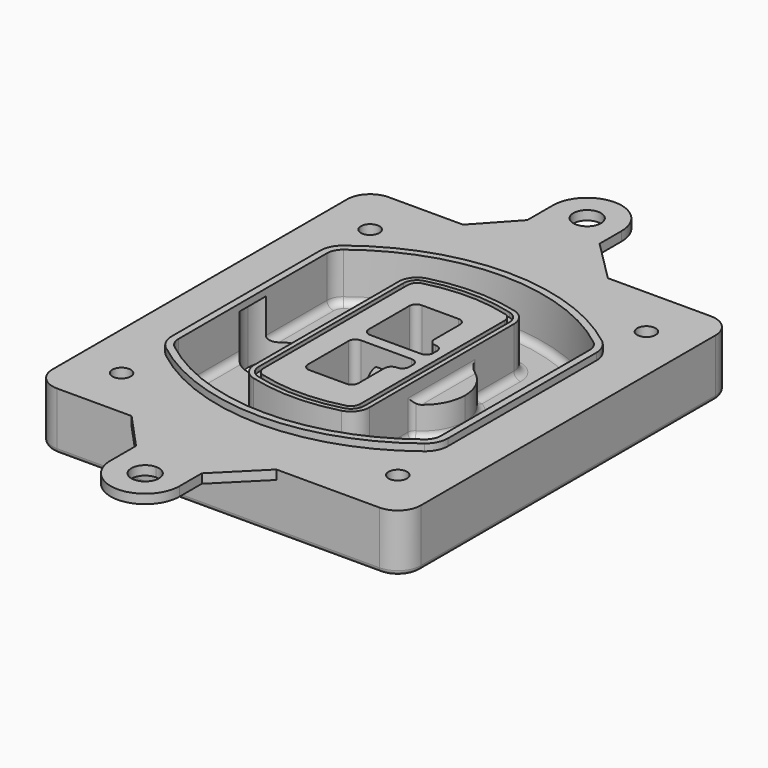
from build123d import *

# Parameters (mm, degrees)
F0_R      = 4
F1_DEPTH  = 25
F2_DEPTH  = 3
F3_DEPTH  = 18
F5_DEPTH  = 21
F6_DEPTH  = 2
F8_DEPTH  = 20
F9_DEPTH  = 16
F10_DEPTH = 25
F7_R      = 6
F7_R_2    = 4
F11_DEPTH = 6
F13_DEPTH = 9
F14_R     = 3
F15_R     = 2
F16_R     = 6
F17_DEPTH = 4


with BuildPart() as f1:
    # F0 (on Top) → F1 (new body)
    with BuildSketch(Plane.XY):
        with BuildLine():
            ThreePointArc((14.05, 38.3825811321), (16.9789321881, 31.3115133202), (24.05, 28.3825811321))
            Line((24.05, 28.3825811321), (164.05, 28.3825811321))
            ThreePointArc((164.05, 28.3825811321), (171.1210678119, 31.3115133202), (174.05, 38.3825811321))
            Line((174.05, 38.3825811321), (174.05, 198.3825811321))
            ThreePointArc((174.05, 198.3825811321), (171.1210678119, 205.4536489439), (164.05, 208.3825811321))
            Line((164.05, 208.3825811321), (24.05, 208.3825811321))
            ThreePointArc((24.05, 208.3825811321), (16.9789321881, 205.4536489439), (14.05, 198.3825811321))
            Line((14.05, 198.3825811321), (14.05, 38.3825811321))
        make_face()
        with Locations((34.05, 50.8825811321)):
            Circle(F0_R, mode=Mode.SUBTRACT)
        with Locations((154.05, 50.8825811321)):
            Circle(F0_R, mode=Mode.SUBTRACT)
        with Locations((34.05, 185.8825811321)):
            Circle(F0_R, mode=Mode.SUBTRACT)
        with BuildLine():
            ThreePointArc((30.05, 158.6760234193), (31.4679615202, 164.8154295545), (35.4346153846, 169.7112011673))
            ThreePointArc((35.4346153846, 169.7112011673), (94.05, 189.8825811321), (152.6653846154, 169.7112011673))
            ThreePointArc((152.6653846154, 169.7112011673), (156.6320384798, 164.8154295545), (158.05, 158.6760234193))
            Line((158.05, 158.6760234193), (158.05, 78.0891388448))
            ThreePointArc((158.05, 78.0891388448), (156.6320384798, 71.9497327097), (152.6653846154, 67.0539610969))
            ThreePointArc((152.6653846154, 67.0539610969), (94.05, 46.8825811321), (35.4346153846, 67.0539610969))
            ThreePointArc((35.4346153846, 67.0539610969), (31.4679615202, 71.9497327097), (30.05, 78.0891388448))
            Line((30.05, 78.0891388448), (30.05, 158.6760234193))
        make_face(mode=Mode.SUBTRACT)
        with Locations((154.05, 185.8825811321)):
            Circle(F0_R, mode=Mode.SUBTRACT)
        with BuildLine():
            ThreePointArc((152.6653846154, 169.7112011673), (94.05, 189.8825811321), (35.4346153846, 169.7112011673))
            ThreePointArc((35.4346153846, 169.7112011673), (31.4679615202, 164.8154295545), (30.05, 158.6760234193))
            Line((30.05, 158.6760234193), (30.05, 78.0891388448))
            ThreePointArc((30.05, 78.0891388448), (31.4679615202, 71.9497327097), (35.4346153846, 67.0539610969))
            ThreePointArc((35.4346153846, 67.0539610969), (94.05, 46.8825811321), (152.6653846154, 67.0539610969))
            ThreePointArc((152.6653846154, 67.0539610969), (156.6320384798, 71.9497327097), (158.05, 78.0891388448))
            Line((158.05, 78.0891388448), (158.05, 158.6760234193))
            ThreePointArc((158.05, 158.6760234193), (156.6320384798, 164.8154295545), (152.6653846154, 169.7112011673))
        make_face()
        with BuildLine():
            Line((34.05, 78.0891388448), (34.05, 158.6760234193))
            ThreePointArc((34.05, 158.6760234193), (35.0628296573, 163.0613135158), (37.8961538462, 166.5582932393))
            ThreePointArc((37.8961538462, 166.5582932393), (94.05, 185.8825811321), (150.2038461538, 166.5582932393))
            ThreePointArc((150.2038461538, 166.5582932393), (153.0371703427, 163.0613135158), (154.05, 158.6760234193))
            Line((154.05, 158.6760234193), (154.05, 78.0891388448))
            ThreePointArc((154.05, 78.0891388448), (153.0371703427, 73.7038487483), (150.2038461538, 70.2068690248))
            ThreePointArc((150.2038461538, 70.2068690248), (94.05, 50.8825811321), (37.8961538462, 70.2068690248))
            ThreePointArc((37.8961538462, 70.2068690248), (35.0628296573, 73.7038487483), (34.05, 78.0891388448))
        make_face(mode=Mode.SUBTRACT)
        with BuildLine():
            ThreePointArc((37.8961538462, 166.5582932393), (35.0628296573, 163.0613135158), (34.05, 158.6760234193))
            Line((34.05, 158.6760234193), (34.05, 78.0891388448))
            ThreePointArc((34.05, 78.0891388448), (35.0628296573, 73.7038487483), (37.8961538462, 70.2068690248))
            ThreePointArc((37.8961538462, 70.2068690248), (94.05, 50.8825811321), (150.2038461538, 70.2068690248))
            ThreePointArc((150.2038461538, 70.2068690248), (153.0371703427, 73.7038487483), (154.05, 78.0891388448))
            Line((154.05, 78.0891388448), (154.05, 158.6760234193))
            ThreePointArc((154.05, 158.6760234193), (153.0371703427, 163.0613135158), (150.2038461538, 166.5582932393))
            ThreePointArc((150.2038461538, 166.5582932393), (94.05, 185.8825811321), (37.8961538462, 166.5582932393))
        make_face()
        with BuildLine():
            ThreePointArc((148.3576923077, 164.1936122933), (150.3410192399, 161.7457264869), (151.05, 158.6760234193))
            Line((151.05, 158.6760234193), (151.05, 78.0891388448))
            ThreePointArc((151.05, 78.0891388448), (150.3410192399, 75.0194357772), (148.3576923077, 72.5715499708))
            ThreePointArc((148.3576923077, 72.5715499708), (94.05, 53.8825811321), (39.7423076923, 72.5715499708))
            ThreePointArc((39.7423076923, 72.5715499708), (37.7589807601, 75.0194357772), (37.05, 78.0891388448))
            Line((37.05, 78.0891388448), (37.05, 158.6760234193))
            ThreePointArc((37.05, 158.6760234193), (37.7589807601, 161.7457264869), (39.7423076923, 164.1936122933))
            ThreePointArc((39.7423076923, 164.1936122933), (94.05, 182.8825811321), (148.3576923077, 164.1936122933))
        make_face(mode=Mode.SUBTRACT)
        with BuildLine():
            Line((151.05, 78.0891388448), (151.05, 158.6760234193))
            ThreePointArc((151.05, 158.6760234193), (150.3410192399, 161.7457264869), (148.3576923077, 164.1936122933))
            ThreePointArc((148.3576923077, 164.1936122933), (94.05, 182.8825811321), (39.7423076923, 164.1936122933))
            ThreePointArc((39.7423076923, 164.1936122933), (37.7589807601, 161.7457264869), (37.05, 158.6760234193))
            Line((37.05, 158.6760234193), (37.05, 78.0891388448))
            ThreePointArc((37.05, 78.0891388448), (37.7589807601, 75.0194357772), (39.7423076923, 72.5715499708))
            ThreePointArc((39.7423076923, 72.5715499708), (94.05, 53.8825811321), (148.3576923077, 72.5715499708))
            ThreePointArc((148.3576923077, 72.5715499708), (150.3410192399, 75.0194357772), (151.05, 78.0891388448))
        make_face()
    extrude(amount=-F1_DEPTH)

    # F0 (on Top) → F2 (join)
    with BuildSketch(Plane.XY):
        with BuildLine():
            ThreePointArc((37.8961538462, 166.5582932393), (35.0628296573, 163.0613135158), (34.05, 158.6760234193))
            Line((34.05, 158.6760234193), (34.05, 78.0891388448))
            ThreePointArc((34.05, 78.0891388448), (35.0628296573, 73.7038487483), (37.8961538462, 70.2068690248))
            ThreePointArc((37.8961538462, 70.2068690248), (94.05, 50.8825811321), (150.2038461538, 70.2068690248))
            ThreePointArc((150.2038461538, 70.2068690248), (153.0371703427, 73.7038487483), (154.05, 78.0891388448))
            Line((154.05, 78.0891388448), (154.05, 158.6760234193))
            ThreePointArc((154.05, 158.6760234193), (153.0371703427, 163.0613135158), (150.2038461538, 166.5582932393))
            ThreePointArc((150.2038461538, 166.5582932393), (94.05, 185.8825811321), (37.8961538462, 166.5582932393))
        make_face()
        with BuildLine():
            ThreePointArc((148.3576923077, 164.1936122933), (150.3410192399, 161.7457264869), (151.05, 158.6760234193))
            Line((151.05, 158.6760234193), (151.05, 78.0891388448))
            ThreePointArc((151.05, 78.0891388448), (150.3410192399, 75.0194357772), (148.3576923077, 72.5715499708))
            ThreePointArc((148.3576923077, 72.5715499708), (94.05, 53.8825811321), (39.7423076923, 72.5715499708))
            ThreePointArc((39.7423076923, 72.5715499708), (37.7589807601, 75.0194357772), (37.05, 78.0891388448))
            Line((37.05, 78.0891388448), (37.05, 158.6760234193))
            ThreePointArc((37.05, 158.6760234193), (37.7589807601, 161.7457264869), (39.7423076923, 164.1936122933))
            ThreePointArc((39.7423076923, 164.1936122933), (94.05, 182.8825811321), (148.3576923077, 164.1936122933))
        make_face(mode=Mode.SUBTRACT)
    extrude(amount=F2_DEPTH)

    # F0 (on Top) → F3 (cut)
    with BuildSketch(Plane.XY):
        with BuildLine():
            Line((151.05, 78.0891388448), (151.05, 158.6760234193))
            ThreePointArc((151.05, 158.6760234193), (150.3410192399, 161.7457264869), (148.3576923077, 164.1936122933))
            ThreePointArc((148.3576923077, 164.1936122933), (94.05, 182.8825811321), (39.7423076923, 164.1936122933))
            ThreePointArc((39.7423076923, 164.1936122933), (37.7589807601, 161.7457264869), (37.05, 158.6760234193))
            Line((37.05, 158.6760234193), (37.05, 78.0891388448))
            ThreePointArc((37.05, 78.0891388448), (37.7589807601, 75.0194357772), (39.7423076923, 72.5715499708))
            ThreePointArc((39.7423076923, 72.5715499708), (94.05, 53.8825811321), (148.3576923077, 72.5715499708))
            ThreePointArc((148.3576923077, 72.5715499708), (150.3410192399, 75.0194357772), (151.05, 78.0891388448))
        make_face()
    extrude(amount=-F3_DEPTH, mode=Mode.SUBTRACT)

    # F4 (on face) → F5 (join, through all)
    with BuildSketch(Plane.XY.offset(3)):
        with BuildLine():
            ThreePointArc((69.05, 79.13605345), (70.6988454002, 74.2716074128), (74.9657088123, 71.4123412437))
            ThreePointArc((74.9657088123, 71.4123412437), (94.05, 68.8825811321), (113.1342911877, 71.4123412437))
            ThreePointArc((113.1342911877, 71.4123412437), (117.4011545998, 74.2716074128), (119.05, 79.13605345))
            Line((119.05, 79.13605345), (119.05, 157.6291088141))
            ThreePointArc((119.05, 157.6291088141), (117.4011545998, 162.4935548514), (113.1342911877, 165.3528210204))
            ThreePointArc((113.1342911877, 165.3528210204), (94.05, 167.8825811321), (74.9657088123, 165.3528210204))
            ThreePointArc((74.9657088123, 165.3528210204), (70.6988454002, 162.4935548514), (69.05, 157.6291088141))
            Line((69.05, 157.6291088141), (69.05, 79.13605345))
        make_face()
        with BuildLine():
            ThreePointArc((112.6132183908, 163.4218929688), (115.8133659499, 161.2774433421), (117.05, 157.6291088141))
            Line((117.05, 157.6291088141), (117.05, 79.13605345))
            ThreePointArc((117.05, 79.13605345), (115.8133659499, 75.4877189221), (112.6132183908, 73.3432692953))
            ThreePointArc((112.6132183908, 73.3432692953), (94.05, 70.8825811321), (75.4867816092, 73.3432692953))
            ThreePointArc((75.4867816092, 73.3432692953), (72.2866340501, 75.4877189221), (71.05, 79.13605345))
            Line((71.05, 79.13605345), (71.05, 157.6291088141))
            ThreePointArc((71.05, 157.6291088141), (72.2866340501, 161.2774433421), (75.4867816092, 163.4218929688))
            ThreePointArc((75.4867816092, 163.4218929688), (94.05, 165.8825811321), (112.6132183908, 163.4218929688))
        make_face(mode=Mode.SUBTRACT)
        with BuildLine():
            Line((117.05, 79.13605345), (117.05, 157.6291088141))
            ThreePointArc((117.05, 157.6291088141), (115.8133659499, 161.2774433421), (112.6132183908, 163.4218929688))
            ThreePointArc((112.6132183908, 163.4218929688), (94.05, 165.8825811321), (75.4867816092, 163.4218929688))
            ThreePointArc((75.4867816092, 163.4218929688), (72.2866340501, 161.2774433421), (71.05, 157.6291088141))
            Line((71.05, 157.6291088141), (71.05, 79.13605345))
            ThreePointArc((71.05, 79.13605345), (72.2866340501, 75.4877189221), (75.4867816092, 73.3432692953))
            ThreePointArc((75.4867816092, 73.3432692953), (94.05, 70.8825811321), (112.6132183908, 73.3432692953))
            ThreePointArc((112.6132183908, 73.3432692953), (115.8133659499, 75.4877189221), (117.05, 79.13605345))
        make_face()
        with BuildLine():
            ThreePointArc((112.0921455939, 161.4909649173), (114.2255772999, 160.0613318328), (115.05, 157.6291088141))
            Line((115.05, 157.6291088141), (115.05, 79.13605345))
            ThreePointArc((115.05, 79.13605345), (114.2255772999, 76.7038304314), (112.0921455939, 75.2741973469))
            ThreePointArc((112.0921455939, 75.2741973469), (94.05, 72.8825811321), (76.0078544061, 75.2741973469))
            ThreePointArc((76.0078544061, 75.2741973469), (73.8744227001, 76.7038304314), (73.05, 79.13605345))
            Line((73.05, 79.13605345), (73.05, 157.6291088141))
            ThreePointArc((73.05, 157.6291088141), (73.8744227001, 160.0613318328), (76.0078544061, 161.4909649173))
            ThreePointArc((76.0078544061, 161.4909649173), (94.05, 163.8825811321), (112.0921455939, 161.4909649173))
        make_face(mode=Mode.SUBTRACT)
        with BuildLine():
            Line((115.05, 79.13605345), (115.05, 157.6291088141))
            ThreePointArc((115.05, 157.6291088141), (114.2255772999, 160.0613318328), (112.0921455939, 161.4909649173))
            ThreePointArc((112.0921455939, 161.4909649173), (94.05, 163.8825811321), (76.0078544061, 161.4909649173))
            ThreePointArc((76.0078544061, 161.4909649173), (73.8744227001, 160.0613318328), (73.05, 157.6291088141))
            Line((73.05, 157.6291088141), (73.05, 79.13605345))
            ThreePointArc((73.05, 79.13605345), (73.8744227001, 76.7038304314), (76.0078544061, 75.2741973469))
            ThreePointArc((76.0078544061, 75.2741973469), (94.05, 72.8825811321), (112.0921455939, 75.2741973469))
            ThreePointArc((112.0921455939, 75.2741973469), (114.2255772999, 76.7038304314), (115.05, 79.13605345))
        make_face()
        with BuildLine():
            Line((86.05, 115.8825811321), (108.05, 115.8825811321))
            ThreePointArc((108.05, 115.8825811321), (110.1713203436, 115.0039014756), (111.05, 112.8825811321))
            Line((111.05, 112.8825811321), (111.05, 110.8825811321))
            ThreePointArc((111.05, 110.8825811321), (110.1713203436, 108.7612607885), (108.05, 107.8825811321))
            ThreePointArc((108.05, 107.8825811321), (105.9286796564, 107.0039014756), (105.05, 104.8825811321))
            Line((105.05, 104.8825811321), (105.05, 90.8825811321))
            ThreePointArc((105.05, 90.8825811321), (104.1713203436, 88.7612607885), (102.05, 87.8825811321))
            Line((102.05, 87.8825811321), (86.05, 87.8825811321))
            ThreePointArc((86.05, 87.8825811321), (83.9286796564, 88.7612607885), (83.05, 90.8825811321))
            Line((83.05, 90.8825811321), (83.05, 112.8825811321))
            ThreePointArc((83.05, 112.8825811321), (83.9286796564, 115.0039014756), (86.05, 115.8825811321))
        make_face(mode=Mode.SUBTRACT)
        with BuildLine():
            ThreePointArc((86.05, 120.8825811321), (83.9286796564, 121.7612607885), (83.05, 123.8825811321))
            Line((83.05, 123.8825811321), (83.05, 145.8825811321))
            ThreePointArc((83.05, 145.8825811321), (83.9286796564, 148.0039014756), (86.05, 148.8825811321))
            Line((86.05, 148.8825811321), (102.05, 148.8825811321))
            ThreePointArc((102.05, 148.8825811321), (104.1713203436, 148.0039014756), (105.05, 145.8825811321))
            Line((105.05, 145.8825811321), (105.05, 131.8825811321))
            ThreePointArc((105.05, 131.8825811321), (105.9286796564, 129.7612607885), (108.05, 128.8825811321))
            ThreePointArc((108.05, 128.8825811321), (110.1713203436, 128.0039014756), (111.05, 125.8825811321))
            Line((111.05, 125.8825811321), (111.05, 123.8825811321))
            ThreePointArc((111.05, 123.8825811321), (110.1713203436, 121.7612607885), (108.05, 120.8825811321))
            Line((108.05, 120.8825811321), (86.05, 120.8825811321))
        make_face(mode=Mode.SUBTRACT)
    extrude(amount=-F5_DEPTH)

    # F4 (on face) → F6 (cut)
    with BuildSketch(Plane.XY.offset(3)):
        with BuildLine():
            Line((117.05, 79.13605345), (117.05, 157.6291088141))
            ThreePointArc((117.05, 157.6291088141), (115.8133659499, 161.2774433421), (112.6132183908, 163.4218929688))
            ThreePointArc((112.6132183908, 163.4218929688), (94.05, 165.8825811321), (75.4867816092, 163.4218929688))
            ThreePointArc((75.4867816092, 163.4218929688), (72.2866340501, 161.2774433421), (71.05, 157.6291088141))
            Line((71.05, 157.6291088141), (71.05, 79.13605345))
            ThreePointArc((71.05, 79.13605345), (72.2866340501, 75.4877189221), (75.4867816092, 73.3432692953))
            ThreePointArc((75.4867816092, 73.3432692953), (94.05, 70.8825811321), (112.6132183908, 73.3432692953))
            ThreePointArc((112.6132183908, 73.3432692953), (115.8133659499, 75.4877189221), (117.05, 79.13605345))
        make_face()
        with BuildLine():
            ThreePointArc((112.0921455939, 161.4909649173), (114.2255772999, 160.0613318328), (115.05, 157.6291088141))
            Line((115.05, 157.6291088141), (115.05, 79.13605345))
            ThreePointArc((115.05, 79.13605345), (114.2255772999, 76.7038304314), (112.0921455939, 75.2741973469))
            ThreePointArc((112.0921455939, 75.2741973469), (94.05, 72.8825811321), (76.0078544061, 75.2741973469))
            ThreePointArc((76.0078544061, 75.2741973469), (73.8744227001, 76.7038304314), (73.05, 79.13605345))
            Line((73.05, 79.13605345), (73.05, 157.6291088141))
            ThreePointArc((73.05, 157.6291088141), (73.8744227001, 160.0613318328), (76.0078544061, 161.4909649173))
            ThreePointArc((76.0078544061, 161.4909649173), (94.05, 163.8825811321), (112.0921455939, 161.4909649173))
        make_face(mode=Mode.SUBTRACT)
    extrude(amount=-F6_DEPTH, mode=Mode.SUBTRACT)

    # F7 (on face) → F8 (join)
    with BuildSketch(Plane(origin=(0, 0, -25), x_dir=(1, 0, 0), z_dir=(0, 0, -1))):
        with BuildLine():
            ThreePointArc((97.33842436, -118.3825811321), (110.8067035675, -104.9143019245), (124.274982775, -118.3825811321))
            Line((124.274982775, -118.3825811321), (129.274982775, -118.3825811321))
            ThreePointArc((129.274982775, -118.3825811321), (110.8067035675, -99.9143019245), (92.33842436, -118.3825811321))
            Line((92.33842436, -118.3825811321), (97.33842436, -118.3825811321))
        make_face()
        with BuildLine():
            Line((97.33842436, -118.3825811321), (124.274982775, -118.3825811321))
            ThreePointArc((124.274982775, -118.3825811321), (110.8067035675, -104.9143019245), (97.33842436, -118.3825811321))
        make_face()
        with BuildLine():
            ThreePointArc((97.33842436, -118.3825811321), (110.8067035675, -131.8508603396), (124.274982775, -118.3825811321))
            Line((124.274982775, -118.3825811321), (97.33842436, -118.3825811321))
        make_face()
        with BuildLine():
            Line((129.274982775, -118.3825811321), (124.274982775, -118.3825811321))
            ThreePointArc((124.274982775, -118.3825811321), (110.8067035675, -131.8508603396), (97.33842436, -118.3825811321))
            Line((97.33842436, -118.3825811321), (92.33842436, -118.3825811321))
            ThreePointArc((92.33842436, -118.3825811321), (110.8067035675, -136.8508603396), (129.274982775, -118.3825811321))
        make_face()
    extrude(amount=-F8_DEPTH)

    # F7 (on face) → F9 (cut)
    with BuildSketch(Plane(origin=(0, 0, -25), x_dir=(1, 0, 0), z_dir=(0, 0, -1))):
        with BuildLine():
            Line((97.33842436, -118.3825811321), (124.274982775, -118.3825811321))
            ThreePointArc((124.274982775, -118.3825811321), (110.8067035675, -104.9143019245), (97.33842436, -118.3825811321))
        make_face()
        with BuildLine():
            ThreePointArc((97.33842436, -118.3825811321), (110.8067035675, -131.8508603396), (124.274982775, -118.3825811321))
            Line((124.274982775, -118.3825811321), (97.33842436, -118.3825811321))
        make_face()
    extrude(amount=-F9_DEPTH, mode=Mode.SUBTRACT)

    # F7 (on face) → F10 (cut)
    with BuildSketch(Plane(origin=(0, 0, -25), x_dir=(1, 0, 0), z_dir=(0, 0, -1))):
        with BuildLine():
            Line((35.0181770675, -118.3825811321), (61.9547354825, -118.3825811321))
            ThreePointArc((61.9547354825, -118.3825811321), (48.486456275, -104.9143019245), (35.0181770675, -118.3825811321))
        make_face()
        with BuildLine():
            ThreePointArc((35.0181770675, -118.3825811321), (48.486456275, -131.8508603396), (61.9547354825, -118.3825811321))
            Line((61.9547354825, -118.3825811321), (35.0181770675, -118.3825811321))
        make_face()
    extrude(amount=-F10_DEPTH, mode=Mode.SUBTRACT)

    # F7 (on face) → F11 (cut)
    with BuildSketch(Plane(origin=(0, 0, -25), x_dir=(1, 0, 0), z_dir=(0, 0, -1))):
        with Locations((154.05, -185.8825811321)):
            Circle(F7_R)
        with Locations((154.05, -185.8825811321)):
            Circle(F7_R_2, mode=Mode.SUBTRACT)
        with Locations((154.05, -185.8825811321)):
            Circle(F7_R)
        with Locations((154.05, -185.8825811321)):
            Circle(F7_R_2, mode=Mode.SUBTRACT)
        with Locations((34.05, -185.8825811321)):
            Circle(F7_R)
        with Locations((34.05, -185.8825811321)):
            Circle(F7_R_2, mode=Mode.SUBTRACT)
        with Locations((34.05, -185.8825811321)):
            Circle(F7_R)
        with Locations((34.05, -185.8825811321)):
            Circle(F7_R_2, mode=Mode.SUBTRACT)
        with Locations((34.05, -50.8825811321)):
            Circle(F7_R)
        with Locations((34.05, -50.8825811321)):
            Circle(F7_R_2, mode=Mode.SUBTRACT)
        with Locations((34.05, -50.8825811321)):
            Circle(F7_R)
        with Locations((34.05, -50.8825811321)):
            Circle(F7_R_2, mode=Mode.SUBTRACT)
        with Locations((154.05, -50.8825811321)):
            Circle(F7_R)
        with Locations((154.05, -50.8825811321)):
            Circle(F7_R_2, mode=Mode.SUBTRACT)
        with Locations((154.05, -50.8825811321)):
            Circle(F7_R)
        with Locations((154.05, -50.8825811321)):
            Circle(F7_R_2, mode=Mode.SUBTRACT)
    extrude(amount=-F11_DEPTH, mode=Mode.SUBTRACT)

    # F12 (on face) → F13 (cut, through all)
    with BuildSketch(Plane(origin=(0, 0, -9), x_dir=(1, 0, 0), z_dir=(0, 0, -1))):
        with BuildLine():
            Line((105.05, -104.8825811321), (105.05, -100.8344273567))
            ThreePointArc((105.05, -100.8344273567), (96.6196536419, -106.5586667507), (92.5084157545, -115.8825811321))
            Line((92.5084157545, -115.8825811321), (97.5724848595, -115.8825811321))
            ThreePointArc((97.5724848595, -115.8825811321), (100.2357188154, -110.0369939039), (105.3036447004, -106.0898642673))
            ThreePointArc((105.3036447004, -106.0898642673), (105.1140958889, -105.4994012441), (105.05, -104.8825811321))
        make_face()
        with BuildLine():
            ThreePointArc((105.3036447004, -130.6752979968), (100.2357188154, -126.7281683602), (97.5724848595, -120.8825811321))
            Line((97.5724848595, -120.8825811321), (92.5084157545, -120.8825811321))
            ThreePointArc((92.5084157545, -120.8825811321), (96.6196536419, -130.2064955134), (105.05, -135.9307349074))
            Line((105.05, -135.9307349074), (105.05, -131.8825811321))
            ThreePointArc((105.05, -131.8825811321), (105.1140958889, -131.26576102), (105.3036447004, -130.6752979968))
        make_face()
        with BuildLine():
            ThreePointArc((105.3036447004, -106.0898642673), (100.2357188154, -110.0369939039), (97.5724848595, -115.8825811321))
            Line((97.5724848595, -115.8825811321), (108.05, -115.8825811321))
            ThreePointArc((108.05, -115.8825811321), (110.1713203436, -115.0039014756), (111.05, -112.8825811321))
            Line((111.05, -112.8825811321), (111.05, -110.8825811321))
            ThreePointArc((111.05, -110.8825811321), (110.1713203436, -108.7612607885), (108.05, -107.8825811321))
            ThreePointArc((108.05, -107.8825811321), (106.4101599782, -107.3947365219), (105.3036447004, -106.0898642673))
        make_face()
        with BuildLine():
            Line((108.05, -120.8825811321), (97.5724848595, -120.8825811321))
            ThreePointArc((97.5724848595, -120.8825811321), (100.2357188154, -126.7281683602), (105.3036447004, -130.6752979968))
            ThreePointArc((105.3036447004, -130.6752979968), (106.4101599782, -129.3704257422), (108.05, -128.8825811321))
            ThreePointArc((108.05, -128.8825811321), (110.1713203436, -128.0039014756), (111.05, -125.8825811321))
            Line((111.05, -125.8825811321), (111.05, -123.8825811321))
            ThreePointArc((111.05, -123.8825811321), (110.1713203436, -121.7612607885), (108.05, -120.8825811321))
        make_face()
    extrude(amount=F13_DEPTH, mode=Mode.SUBTRACT)

    # F14
    f14_edges = [f1.edges().sort_by_distance(p)[0] for p in [
        (37.05, 94.679105, -18),
        (37.05, 142.086057, -18),
        (119.05, 118.382581, -5),
        (119.05, 134.909087, -11.5),
        (119.05, 101.856075, -11.5),
        (119.05, 90.496064, -18),
        (129.274983, 118.382581, -18),
    ]]
    fillet(f14_edges, radius=F14_R)

    # F15
    f15_edges = [f1.edges().sort_by_distance(p)[0] for p in [
        (94.05, 28.382581, -25),
    ]]
    fillet(f15_edges, radius=F15_R)

    # F16 (on face) → F17 (join)
    with BuildSketch(Plane.XY):
        with BuildLine():
            Line((86.2956183386, 28.3825811321), (56.3994878187, 28.3825811321))
            Line((56.3994878187, 28.3825811321), (71.3111058391, 12.1628900845))
            Line((71.3111058391, 12.1628900845), (71.3111058391, -0.9359607618))
            ThreePointArc((71.3111058391, -0.9359607618), (85.9548013008, -16.613546493), (101.2956183386, -1.6174188679))
            Line((101.2956183386, -1.6174188679), (101.2956183386, 10.3825811321))
            Line((101.2956183386, 10.3825811321), (119.2956183386, 28.3825811321))
            Line((119.2956183386, 28.3825811321), (86.2956183386, 28.3825811321))
        make_face()
        with BuildLine():
            ThreePointArc((92.2956183386, -1.6174188679), (82.0529776515, -5.8600595551), (86.2956183386, 4.3825811321))
            ThreePointArc((86.2956183386, 4.3825811321), (90.5382590258, 2.6252218192), (92.2956183386, -1.6174188679))
        make_face(mode=Mode.SUBTRACT)
        with BuildLine():
            Line((71.3111058391, 224.6022721797), (56.3994878187, 208.3825811321))
            Line((56.3994878187, 208.3825811321), (119.2956183386, 208.3825811321))
            Line((119.2956183386, 208.3825811321), (101.2956183386, 226.3825811321))
            Line((101.2956183386, 226.3825811321), (101.2956183386, 238.3825811321))
            ThreePointArc((101.2956183386, 238.3825811321), (85.9548013008, 253.3787087571), (71.3111058391, 237.701123026))
            Line((71.3111058391, 237.701123026), (71.3111058391, 224.6022721797))
        make_face()
        with Locations((86.2956183386, 238.3825811321)):
            Circle(F16_R, mode=Mode.SUBTRACT)
    extrude(amount=-F17_DEPTH)


solid = f1.part
